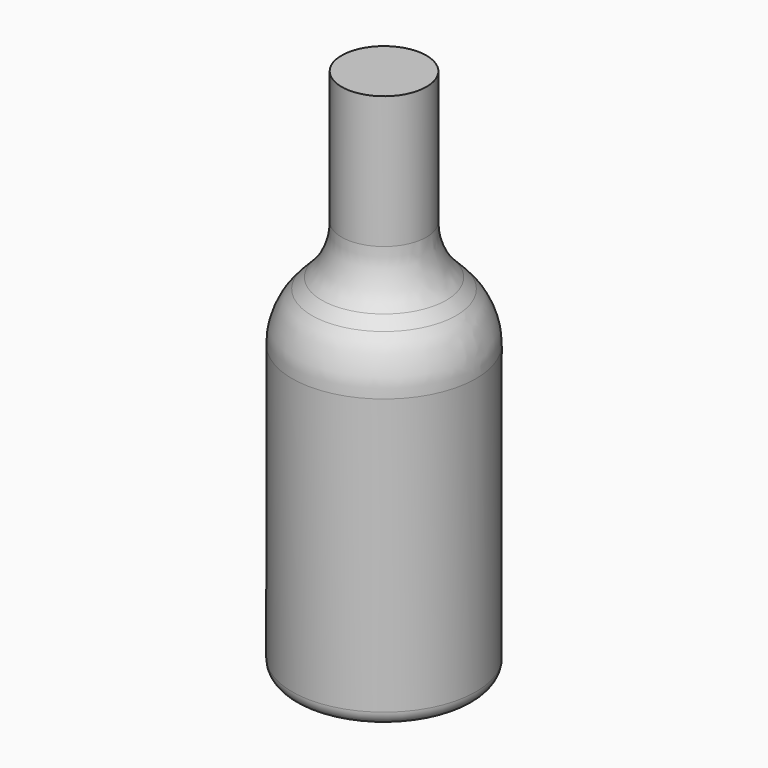
from build123d import *

# Parameters (mm, degrees)
F2_R = 5.08
F3_R = 25.4


with BuildPart() as f1:
    # F0 (on Front) → F1 (revolve)
    with BuildSketch(Plane.XZ):
        Polygon((15.24, 95.25), (0, 95.25), (0, -95.25), (33.02, -95.25), (33.02, 19.05), (15.24, 37.494287), align=None)
    revolve(axis=Axis((0, 0, 2.313137), (0, 0, -1)))

    # F2
    f2_edges = [f1.edges().sort_by_distance(p)[0] for p in [
        (-33.02, 0, -95.25),
    ]]
    fillet(f2_edges, radius=F2_R)

    # F3
    f3_edges = [f1.edges().sort_by_distance(p)[0] for p in [
        (-33.02, 0, 19.05),
        (-15.24, 0, 37.494287),
    ]]
    fillet(f3_edges, radius=F3_R)


solid = f1.part
